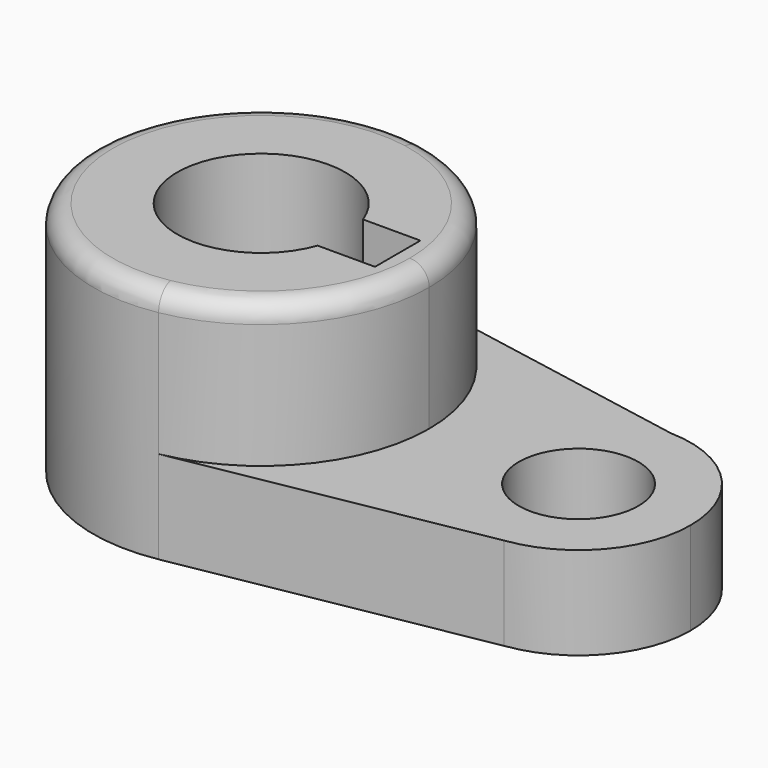
from build123d import *

# Parameters (mm, degrees)
F1_DEPTH = 40.2336
F2_DEPTH = 15.7734
F3_R     = 3.302


with BuildPart() as f1:
    # F0 (on Top) → F1 (new body)
    with BuildSketch(Plane.XY):
        with BuildLine():
            ThreePointArc((-30.217025, -28.124403), (-13.351678, -18.33162), (-6.696585, 0))
            ThreePointArc((-6.696585, 0), (-13.314561, 18.287146), (-30.103039, 28.103679))
            ThreePointArc((-30.103039, 28.103679), (-63.846526, 0.057927), (-30.217025, -28.124403))
        make_face()
        with BuildLine():
            Line((-12.062577, 4.826), (-12.062577, 0))
            Line((-12.062577, 0), (-12.062577, -4.826))
            Line((-12.062577, -4.826), (-21.82382, -4.826))
            ThreePointArc((-21.82382, -4.826), (-49.559085, 0), (-21.82382, 4.826))
            Line((-21.82382, 4.826), (-12.062577, 4.826))
        make_face(mode=Mode.SUBTRACT)
    extrude(amount=F1_DEPTH)

    # F0 (on Top) → F2 (join)
    with BuildSketch(Plane.XY):
        with BuildLine():
            Line((-0.346585, 0), (-6.696585, 0))
            ThreePointArc((-6.696585, 0), (-13.351678, -18.33162), (-30.217025, -28.124403))
            Line((-30.217025, -28.124403), (21.158081, -18.891191))
            ThreePointArc((21.158081, -18.891191), (6.130804, -14.311951), (-0.346585, 0))
        make_face()
        with BuildLine():
            ThreePointArc((-30.103039, 28.103679), (-13.314561, 18.287146), (-6.696585, 0))
            Line((-6.696585, 0), (-0.346585, 0))
            ThreePointArc((-0.346585, 0), (5.393624, 13.629085), (19.154934, 19.044648))
            Line((19.154934, 19.044648), (-30.103039, 28.103679))
        make_face()
        with BuildLine():
            ThreePointArc((19.154934, 19.044648), (5.393624, 13.629085), (-0.346585, 0))
            ThreePointArc((-0.346585, 0), (6.130804, -14.311951), (21.158081, -18.891191))
            ThreePointArc((21.158081, -18.891191), (33.015366, -12.572611), (37.753415, 0))
            ThreePointArc((37.753415, 0), (32.3325, 13.309791), (19.154934, 19.044648))
        make_face()
        with BuildLine():
            ThreePointArc((28.863415, 0), (18.703415, -10.16), (8.543415, 0))
            ThreePointArc((8.543415, 0), (18.703415, 10.16), (28.863415, 0))
        make_face(mode=Mode.SUBTRACT)
    extrude(amount=F2_DEPTH)

    # F3
    f3_edges = [f1.edges().sort_by_distance(p)[0] for p in [
        (-40.326145, 28.124403, 40.2336),
    ]]
    fillet(f3_edges, radius=F3_R)


solid = f1.part
